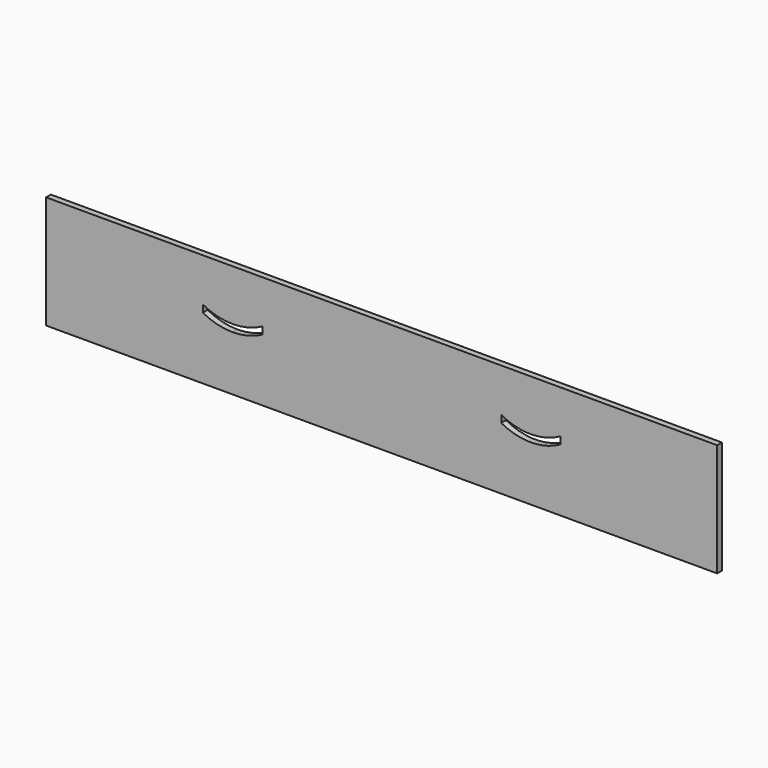
from build123d import *

# Parameters (mm, degrees)
F1_DEPTH = 3.175


with BuildPart() as f1:
    # F0 (on Front) → F1 (new body)
    with BuildSketch(Plane.XZ):
        Polygon((98.386274, 16.736827), (-51.613726, 16.736827), (-99.901127, 16.736827), (-99.901127, -43.263173), (-51.613726, -43.263173), (98.386274, -43.263173), (256.824182, -43.263173), (256.824182, 16.736827), align=None)
        with BuildLine():
            Line((-16.563727, -10.134648), (-16.563727, -6.324648))
            ThreePointArc((-16.563727, -6.324648), (-8.906867, -9.311239), (-0.751226, -10.327486))
            ThreePointArc((-0.751226, -10.327486), (7.404414, -9.311239), (15.061274, -6.324648))
            Line((15.061274, -6.324648), (15.061274, -10.134648))
            ThreePointArc((15.061274, -10.134648), (7.404414, -13.121239), (-0.751226, -14.137486))
            ThreePointArc((-0.751226, -14.137486), (-8.906867, -13.121239), (-16.563727, -10.134648))
        make_face(mode=Mode.SUBTRACT)
        with BuildLine():
            Line((142.061274, -10.134648), (142.061274, -6.324648))
            ThreePointArc((142.061274, -6.324648), (157.788284, -10.327282), (173.486782, -6.214243))
            Line((173.486782, -6.214243), (173.486782, -10.024243))
            ThreePointArc((173.486782, -10.024243), (157.788284, -14.137275), (142.061274, -10.134648))
        make_face(mode=Mode.SUBTRACT)
    extrude(amount=F1_DEPTH)


solid = f1.part
